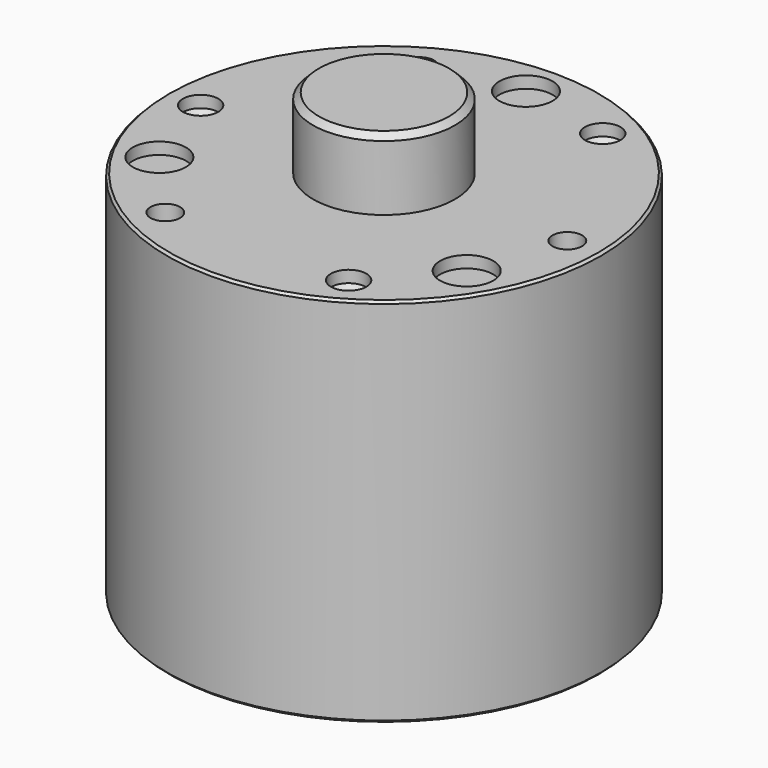
from build123d import *

# Parameters (mm, degrees)
F0_R      = 18.35
F1_DEPTH  = 31.4
F2_R      = 6
F3_DEPTH  = 6
F4_SIZE   = 0.5
F5_SIZE   = 0.2
F6_R      = 2.25
F7_DEPTH  = 1
F9_D      = 3
F9_DEPTH  = 1
F9_TIP    = 0.9012909285
F11_D     = 2.5
F11_DEPTH = 3.8
F11_TIP   = 0.7510757738


with BuildPart() as f1:
    # F0 (on Top) → F1 (new body)
    with BuildSketch(Plane.XY):
        Circle(F0_R)
    extrude(amount=-F1_DEPTH)

    # F2 (on Top) → F3 (join)
    with BuildSketch(Plane.XY):
        Circle(F2_R)
    extrude(amount=F3_DEPTH)

    # F4
    f4_edges = [f1.edges().sort_by_distance(p)[0] for p in [
        (-6, 0, 6),
    ]]
    chamfer(f4_edges, length=F4_SIZE)

    # F5
    f5_edges = [f1.edges().sort_by_distance(p)[0] for p in [
        (-18.35, 0, 0),
        (-18.35, 0, -31.4),
    ]]
    chamfer(f5_edges, length=F5_SIZE)

    # F6 (on Top) → F7 (cut)
    with BuildSketch(Plane.XY):
        with Locations((0, 15)):
            Circle(F6_R)
        with Locations((-12.9903810568, -7.5)):
            Circle(F6_R)
        with Locations((12.9903810568, -7.5)):
            Circle(F6_R)
    extrude(amount=-F7_DEPTH, mode=Mode.SUBTRACT)

    # F9
    with Locations(Plane.XY):
        with Locations((7.75, 13.4233937587), (7.75, -13.4233937587), (-15.5, 0)):
            Hole(F9_D / 2, depth=F9_DEPTH)
            with Locations((0, 0, -(F9_DEPTH + F9_TIP / 2))):  # 118° drill point
                Cone(0, F9_D / 2, F9_TIP, mode=Mode.SUBTRACT)

    # F11
    with Locations(Plane.XY):
        with Locations((-7.75, 13.4233937587), (15.5, 0), (-7.75, -13.4233937587)):
            Hole(F11_D / 2, depth=F11_DEPTH)
            with Locations((0, 0, -(F11_DEPTH + F11_TIP / 2))):  # 118° drill point
                Cone(0, F11_D / 2, F11_TIP, mode=Mode.SUBTRACT)


solid = f1.part
